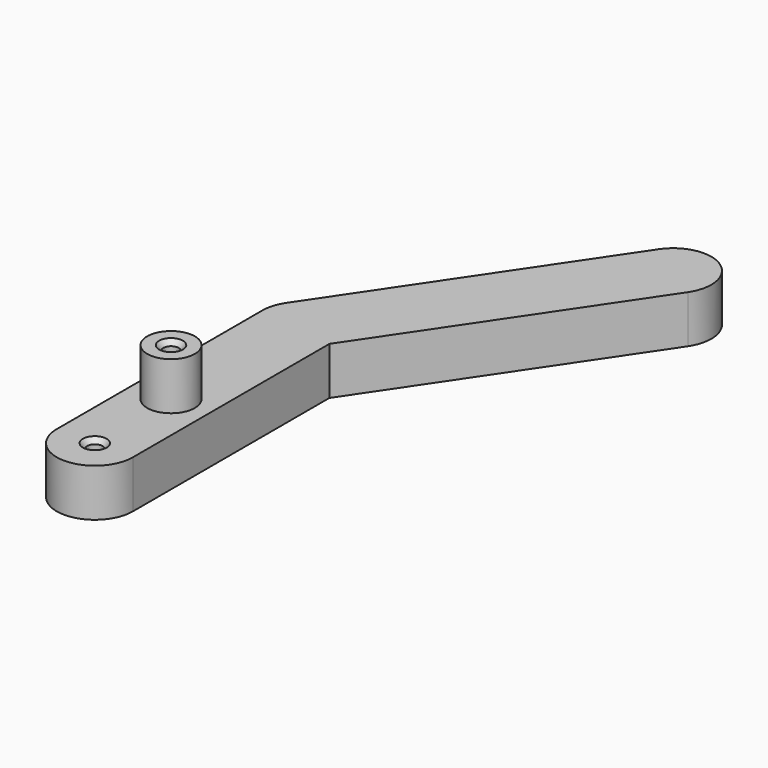
from build123d import *

# Parameters (mm, degrees)
F1_DEPTH       = 6.35
F2_R           = 3.175
F3_DEPTH       = 6.35
F5_D           = 2.032
F5_CSINK_D     = 3.175
F5_CSINK_ANGLE = 82
F7_D           = 2.032
F7_CSINK_D     = 3.175
F7_CSINK_ANGLE = 82


with BuildPart() as f1:
    # F0 (on Top) → F1 (new body)
    with BuildSketch(Plane.XY):
        with BuildLine():
            ThreePointArc((-5.08, 12.7), (-3.5921024484, 9.1078975516), (0, 7.62))
            Line((0, 7.62), (0, 12.7))
            Line((0, 12.7), (0, 17.78))
            ThreePointArc((0, 17.78), (-3.5921024484, 16.2921024484), (-5.08, 12.7))
        make_face()
        with BuildLine():
            Line((0, 12.7), (0, 7.62))
            ThreePointArc((0, 7.62), (3.5921024484, 9.1078975516), (5.08, 12.7))
            ThreePointArc((5.08, 12.7), (3.5921024484, 16.2921024484), (0, 17.78))
            Line((0, 17.78), (0, 12.7))
        make_face()
        with BuildLine():
            ThreePointArc((5.08, 12.7), (3.5921024484, 9.1078975516), (0, 7.62))
            ThreePointArc((0, 7.62), (-3.5921024484, 9.1078975516), (-5.08, 12.7))
            Line((-5.08, 12.7), (-5.08, 0))
            ThreePointArc((-5.08, 0), (0, -5.08), (5.08, 0))
            Line((5.08, 0), (5.08, 12.7))
        make_face()
        with BuildLine():
            ThreePointArc((0, 17.78), (3.5921024484, 16.2921024484), (5.08, 12.7))
            Line((5.08, 12.7), (5.08, 32.7368881382))
            Line((5.08, 32.7368881382), (4.2115108686, 31.4493000504))
            ThreePointArc((4.2115108686, 31.4493000504), (2.384915539, 29.8046262283), (0, 29.21))
            Line((0, 29.21), (0, 17.78))
        make_face()
        with BuildLine():
            Line((-5.08, 34.29), (-5.08, 12.7))
            ThreePointArc((-5.08, 12.7), (-3.5921024484, 16.2921024484), (0, 17.78))
            Line((0, 17.78), (0, 29.21))
            ThreePointArc((0, 29.21), (-3.5921024484, 30.6978975516), (-5.08, 34.29))
        make_face()
        with BuildLine():
            Line((5.08, 34.29), (5.08, 32.7368881382))
            Line((5.08, 32.7368881382), (26.9371104656, 65.141386999))
            ThreePointArc((26.9371104656, 65.141386999), (25.5662995467, 72.1935978172), (18.5140887285, 70.8227868983))
            Line((18.5140887285, 70.8227868983), (-4.2115108686, 37.1306999496))
            ThreePointArc((-4.2115108686, 37.1306999496), (-0.9693096965, 39.2766660919), (2.8406999496, 38.5015108686))
            ThreePointArc((2.8406999496, 38.5015108686), (4.4853737717, 36.674915539), (5.08, 34.29))
        make_face()
        with BuildLine():
            Line((4.2115108686, 31.4493000504), (5.08, 32.7368881382))
            Line((5.08, 32.7368881382), (5.08, 34.29))
            ThreePointArc((5.08, 34.29), (4.4853737717, 36.674915539), (2.8406999496, 38.5015108686))
            Line((2.8406999496, 38.5015108686), (0, 34.29))
            Line((0, 34.29), (0, 29.21))
            ThreePointArc((0, 29.21), (2.384915539, 29.8046262283), (4.2115108686, 31.4493000504))
        make_face()
        with BuildLine():
            ThreePointArc((-4.2115108686, 37.1306999496), (-4.8580281603, 35.77524826), (-5.08, 34.29))
            ThreePointArc((-5.08, 34.29), (-3.5921024484, 30.6978975516), (0, 29.21))
            Line((0, 29.21), (0, 34.29))
            Line((0, 34.29), (2.8406999496, 38.5015108686))
            ThreePointArc((2.8406999496, 38.5015108686), (-0.9693096965, 39.2766660919), (-4.2115108686, 37.1306999496))
        make_face()
    extrude(amount=F1_DEPTH)

    # F2 (on face) → F3 (join)
    with BuildSketch(Plane.XY.offset(6.35)):
        with Locations((0, 12.7)):
            Circle(F2_R)
    extrude(amount=F3_DEPTH)

    # F5 (through all)
    with Locations(Plane.XY.offset(12.7)):
        with Locations((0, 12.7)):
            CounterSinkHole(F5_D / 2, F5_CSINK_D / 2, counter_sink_angle=F5_CSINK_ANGLE)

    # F7 (through all)
    with Locations(Plane.XY.offset(6.35)):
        with Locations((0, 0)):
            CounterSinkHole(F7_D / 2, F7_CSINK_D / 2, counter_sink_angle=F7_CSINK_ANGLE)


solid = f1.part
